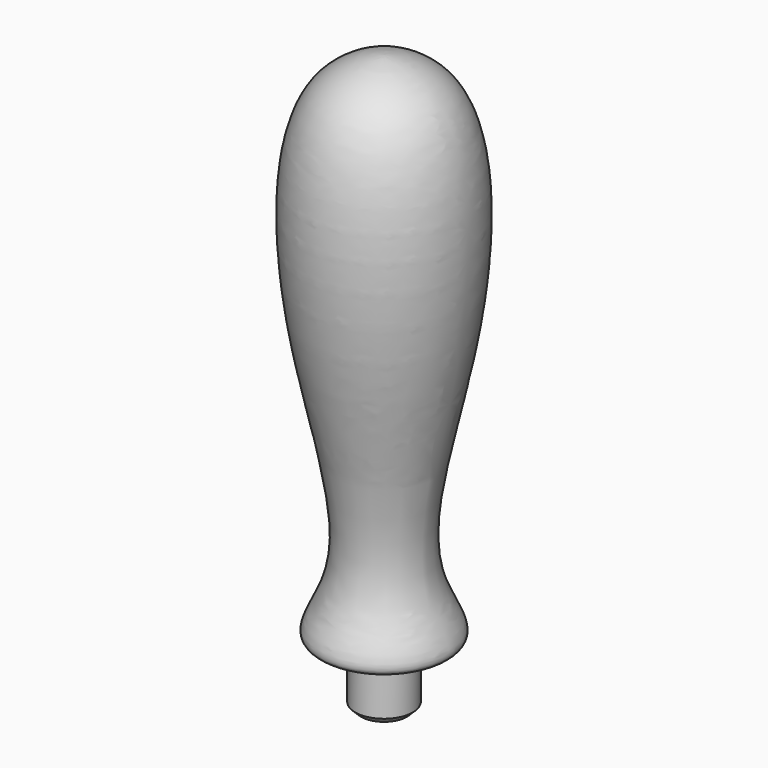
from build123d import *

# Parameters (mm, degrees)
F2_SIZE = 1


with BuildPart() as f1:
    # F0 (on Front) → F1 (revolve)
    with BuildSketch(Plane.XZ):
        with BuildLine():
            Line((0, 100), (0, 0))
            Line((0, 0), (5, 0))
            Line((5, 0), (5, 10))
            add(Edge.make_bspline(
                [(0, 100), (2.0936639425, 100), (15.7012716824, 96.6301200584), (15.3264468089, 56.8061373411), (3.1483549411, 23.0989782648), (14.8763347644, 9.6870815494), (6.1209994919, 9.9988050649), (5, 10)],
                knots=[0, 0, 0, 0, 0.1573932248, 0.4441877358, 0.7318111412, 0.8839062175, 1, 1, 1, 1], degree=3))
        make_face()
    revolve(axis=Axis((0, 0, 50), (0, 0, 1)))

    # F2
    f2_edges = [f1.edges().sort_by_distance(p)[0] for p in [
        (-5, 0, 0),
    ]]
    chamfer(f2_edges, length=F2_SIZE)


solid = f1.part
